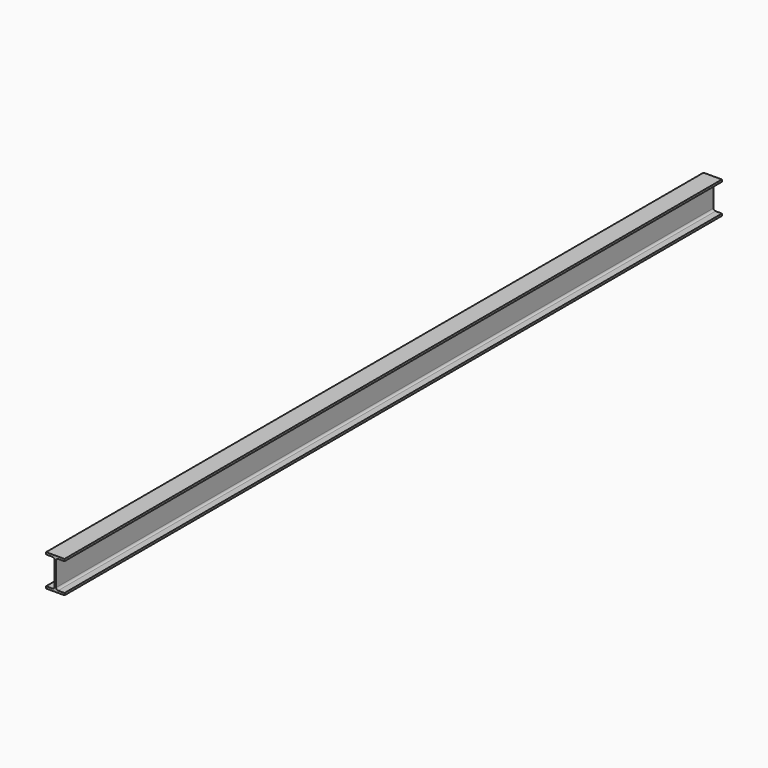
from build123d import *

# Parameters (mm, degrees)
F1_DEPTH = 2050


with BuildPart() as f1:
    # F0 (on Front) → F1 (new body)
    with BuildSketch(Plane.XZ):
        with BuildLine():
            Line((0, 40), (-23, 40))
            Line((-23, 40), (-23, 34.8))
            Line((-23, 34.8), (-6.9, 34.8))
            ThreePointArc((-6.9, 34.8), (-3.364466, 33.335534), (-1.9, 29.8))
            Line((-1.9, 29.8), (-1.9, 0))
            Line((-1.9, 0), (-1.9, -29.8))
            ThreePointArc((-1.9, -29.8), (-3.364466, -33.335534), (-6.9, -34.8))
            Line((-6.9, -34.8), (-23, -34.8))
            Line((-23, -34.8), (-23, -40))
            Line((-23, -40), (0, -40))
            Line((0, -40), (23, -40))
            Line((23, -40), (23, -34.8))
            Line((23, -34.8), (6.9, -34.8))
            ThreePointArc((6.9, -34.8), (3.364466, -33.335534), (1.9, -29.8))
            Line((1.9, -29.8), (1.9, 0))
            Line((1.9, 0), (1.9, 29.8))
            ThreePointArc((1.9, 29.8), (3.364466, 33.335534), (6.9, 34.8))
            Line((6.9, 34.8), (23, 34.8))
            Line((23, 34.8), (23, 40))
            Line((23, 40), (0, 40))
        make_face()
    extrude(amount=F1_DEPTH)


solid = f1.part
